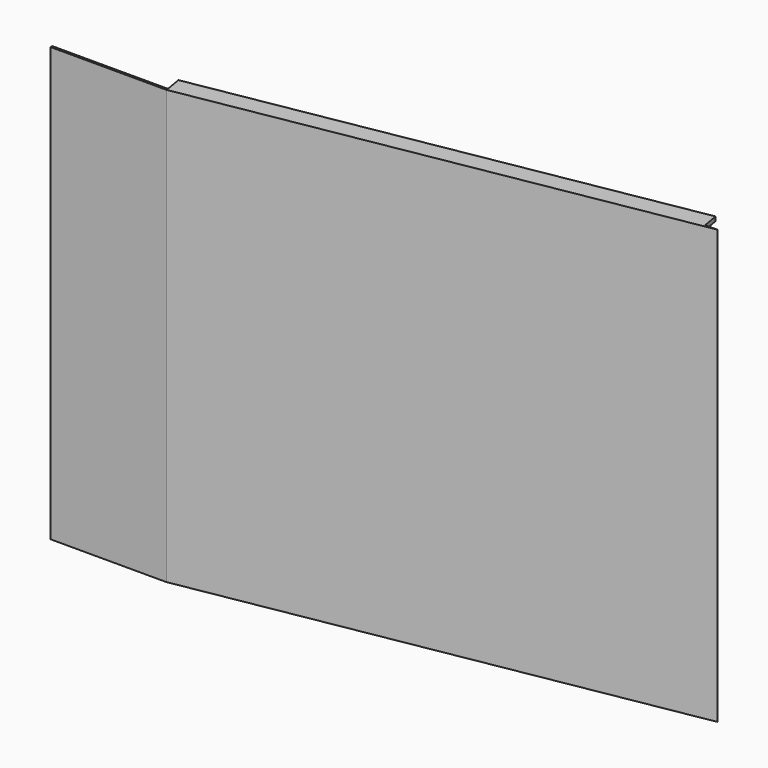
from build123d import *

# Parameters (mm, degrees)
F0_W     = 110
F0_H     = 2
F1_DEPTH = 412
F2_W     = 455.0662100537
F2_H     = 4
F3_DEPTH = 16


with BuildPart() as f1:
    # F0 (on Top) → F1 (new body)
    with BuildSketch(Plane.XY):
        with Locations((-49.3745803833, 21.5659940839)):
            Rectangle(F0_W, F0_H)
        Polygon((5.6254196167, 22.5659940839), (5.6254196167, 20.5659940839), (465.6254196127, 100.5659940832), (453.9570552758, 100.5659940832), align=None)
    extrude(amount=F1_DEPTH)

    # F2 (on face) → F3 (join)
    with BuildSketch(Plane(origin=(-3.6453815607, 20.9530753552, 0), x_dir=(-0.9852008911, -0.1714036294, 0), z_dir=(-0.1714036294, 0.9852008911, 0))):
        with Locations((-236.9431667321, 410)):
            Rectangle(F2_W, F2_H)
    extrude(amount=F3_DEPTH)


solid = f1.part
